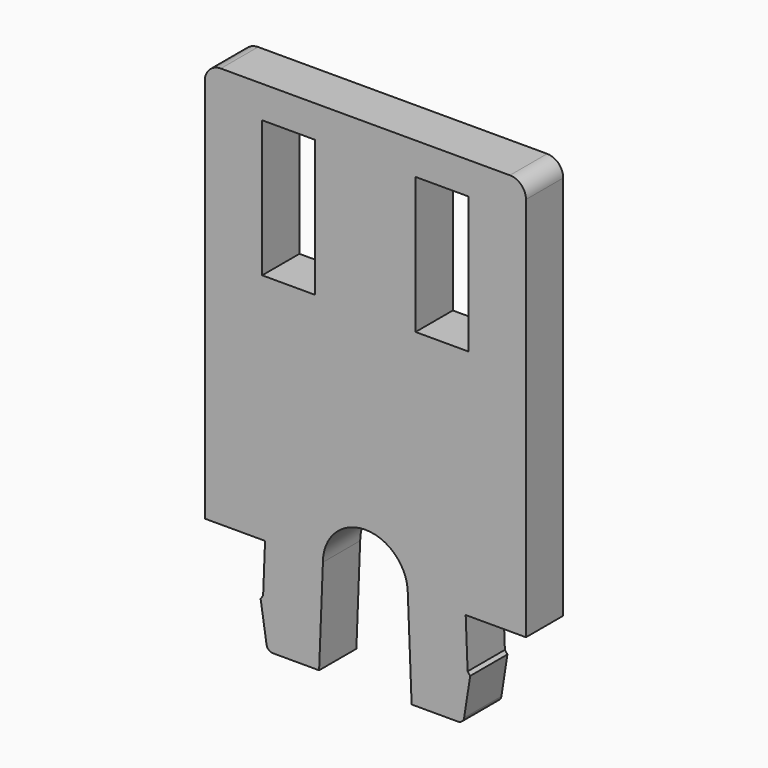
from build123d import *

# Parameters (mm, degrees)
F0_W     = 3.3
F0_H     = 8.5
F1_DEPTH = 2.9


with BuildPart() as f1:
    # F0 (on Front) → F1 (new body)
    with BuildSketch(Plane.XZ):
        with BuildLine():
            Line((-10, 24), (-10, 0))
            Line((-10, 0), (-6.246776, 0))
            Line((-6.246776, 0), (-6.367, -3.05))
            Line((-6.367, -3.05), (-6.525, -3.25))
            Line((-6.525, -3.25), (-6.152377, -5.661093))
            ThreePointArc((-6.152377, -5.661093), (-6.017418, -5.903675), (-5.75707, -6))
            Line((-5.75707, -6), (-2.880486, -6))
            Line((-2.880486, -6), (-2.643981, 0))
            ThreePointArc((-2.643981, 0), (0, 2.643981), (2.643981, 0))
            Line((2.643981, 0), (2.880486, -6))
            Line((2.880486, -6), (5.75707, -6))
            ThreePointArc((5.75707, -6), (6.017418, -5.903675), (6.152377, -5.661093))
            Line((6.152377, -5.661093), (6.525, -3.25))
            Line((6.525, -3.25), (6.367, -3.05))
            Line((6.367, -3.05), (6.246776, 0))
            Line((6.246776, 0), (10, 0))
            Line((10, 0), (10, 24))
            ThreePointArc((10, 24), (9.707107, 24.707107), (9, 25))
            Line((9, 25), (-9, 25))
            ThreePointArc((-9, 25), (-9.707107, 24.707107), (-10, 24))
        make_face()
        with Locations((-4.775, 18.75)):
            Rectangle(F0_W, F0_H, mode=Mode.SUBTRACT)
        with Locations((4.775, 18.75)):
            Rectangle(F0_W, F0_H, mode=Mode.SUBTRACT)
    extrude(amount=F1_DEPTH)


solid = f1.part
